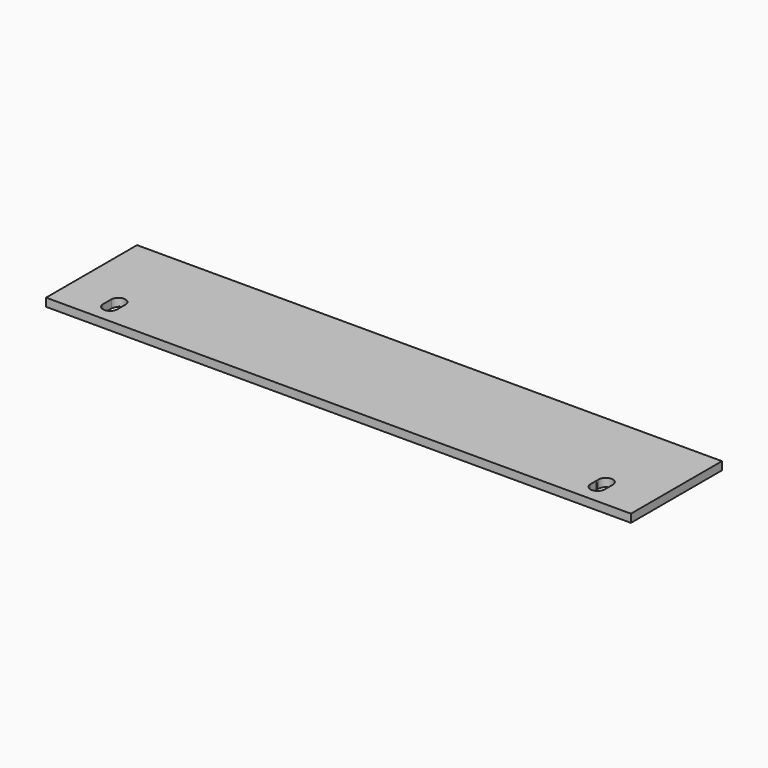
from build123d import *

# Parameters (mm, degrees)
F0_W     = 914.4
F0_H     = 177.8
F1_DEPTH = 12.7
F3_DEPTH = 25.4


with BuildPart() as f1:
    # F0 (on Top) → F1 (new body)
    with BuildSketch(Plane.XY):
        Rectangle(F0_W, F0_H)
    extrude(amount=F1_DEPTH)

    # F2 (on face) → F3 (cut)
    with BuildSketch(Plane.XY.offset(12.7)):
        with BuildLine():
            Line((-392.111974, -58.96853), (-392.111974, -58.66548))
            ThreePointArc((-392.111974, -58.66548), (-392.113007, -58.817005), (-392.111974, -58.96853))
        make_face()
        with BuildLine():
            Line((-392.111974, -42.886588), (-392.111974, -58.66548))
            Line((-392.111974, -58.66548), (-392.111974, -58.96853))
            ThreePointArc((-392.111974, -58.96853), (-380.925086, -69.929249), (-369.888007, -58.817691))
            Line((-369.888007, -58.817691), (-369.887023, -42.886588))
            ThreePointArc((-369.887023, -42.886588), (-380.999498, -31.750702), (-392.111974, -42.886588))
        make_face()
        with BuildLine():
            ThreePointArc((-388.736714, -50.839615), (-388.757055, -50.819833), (-388.777345, -50.8))
            Line((-388.777345, -50.8), (-388.695654, -50.8))
            ThreePointArc((-388.695654, -50.8), (-388.716209, -50.819781), (-388.736714, -50.839615))
        make_face(mode=Mode.SUBTRACT)
        with BuildLine():
            ThreePointArc((-373.221651, -50.8), (-373.242445, -50.820324), (-373.263291, -50.840593))
            ThreePointArc((-373.263291, -50.840593), (-373.284299, -50.820269), (-373.30536, -50.8))
            Line((-373.30536, -50.8), (-373.221651, -50.8))
        make_face(mode=Mode.SUBTRACT)
        with BuildLine():
            Line((392.111974, -58.66548), (392.111974, -42.886588))
            ThreePointArc((392.111974, -42.886588), (380.999498, -31.750702), (369.887023, -42.886588))
            Line((369.887023, -42.886588), (369.888007, -58.817691))
            ThreePointArc((369.888007, -58.817691), (380.925086, -69.929249), (392.111974, -58.96853))
            Line((392.111974, -58.96853), (392.111974, -58.66548))
        make_face()
        with BuildLine():
            Line((373.221651, -50.8), (373.30536, -50.8))
            ThreePointArc((373.30536, -50.8), (373.284299, -50.820269), (373.263291, -50.840593))
            ThreePointArc((373.263291, -50.840593), (373.242445, -50.820324), (373.221651, -50.8))
        make_face(mode=Mode.SUBTRACT)
        with BuildLine():
            Line((388.695654, -50.8), (388.777345, -50.8))
            ThreePointArc((388.777345, -50.8), (388.757055, -50.819833), (388.736714, -50.839615))
            ThreePointArc((388.736714, -50.839615), (388.716209, -50.819781), (388.695654, -50.8))
        make_face(mode=Mode.SUBTRACT)
        with BuildLine():
            ThreePointArc((392.111974, -58.96853), (392.113007, -58.817005), (392.111974, -58.66548))
            Line((392.111974, -58.66548), (392.111974, -58.96853))
        make_face()
    extrude(amount=-F3_DEPTH, mode=Mode.SUBTRACT)


solid = f1.part
